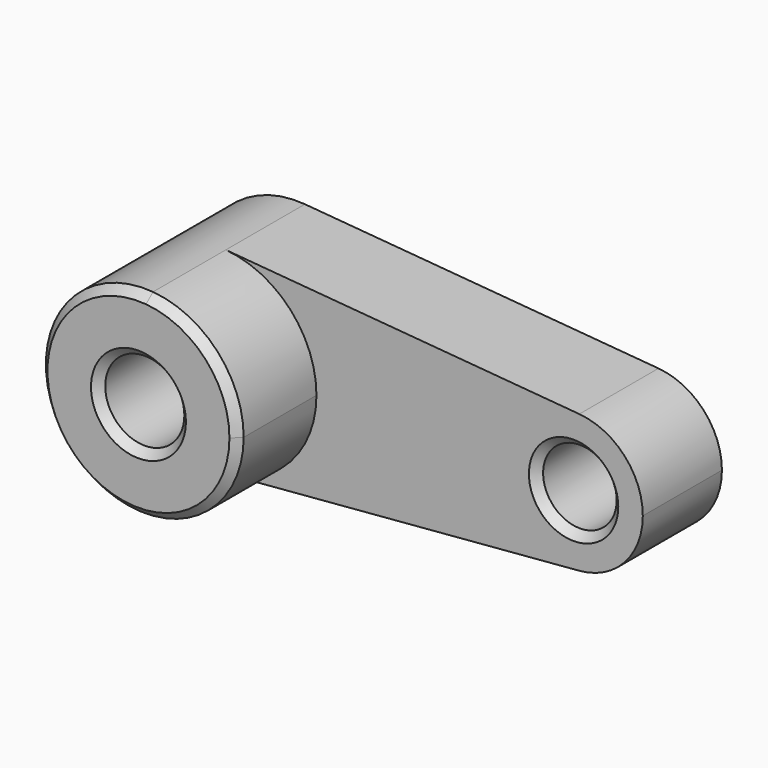
from build123d import *

# Parameters (mm, degrees)
F0_R     = 10
F0_R_2   = 9.297585
F1_DEPTH = 25
F2_DEPTH = 50
F3_SIZE  = 2


with BuildPart() as f1:
    # F0 (on Front) → F1 (new body)
    with BuildSketch(Plane.XZ):
        with BuildLine():
            ThreePointArc((2.083333, -24.913043), (18.399502, -16.92508), (25, 0))
            ThreePointArc((25, 0), (18.399502, 16.92508), (2.083333, 24.913043))
            ThreePointArc((2.083333, 24.913043), (-25, 0), (2.083333, -24.913043))
        make_face()
        Circle(F0_R, mode=Mode.SUBTRACT)
        with BuildLine():
            ThreePointArc((2.083333, 24.913043), (18.399502, 16.92508), (25, 0))
            ThreePointArc((25, 0), (18.399502, -16.92508), (2.083333, -24.913043))
            Line((2.083333, -24.913043), (91.458333, -17.43913))
            ThreePointArc((91.458333, -17.43913), (72.5, 0), (91.458333, 17.43913))
            Line((91.458333, 17.43913), (2.083333, 24.913043))
        make_face()
        with BuildLine():
            ThreePointArc((107.5, 0), (102.879651, 11.847556), (91.458333, 17.43913))
            ThreePointArc((91.458333, 17.43913), (72.5, 0), (91.458333, -17.43913))
            ThreePointArc((91.458333, -17.43913), (102.879651, -11.847556), (107.5, 0))
        make_face()
        with Locations((90, 0)):
            Circle(F0_R_2, mode=Mode.SUBTRACT)
    extrude(amount=F1_DEPTH)

    # F0 (on Front) → F2 (join)
    with BuildSketch(Plane.XZ):
        with BuildLine():
            ThreePointArc((2.083333, -24.913043), (18.399502, -16.92508), (25, 0))
            ThreePointArc((25, 0), (18.399502, 16.92508), (2.083333, 24.913043))
            ThreePointArc((2.083333, 24.913043), (-25, 0), (2.083333, -24.913043))
        make_face()
        Circle(F0_R, mode=Mode.SUBTRACT)
    extrude(amount=F2_DEPTH)

    # F3
    f3_edges = [f1.edges().sort_by_distance(p)[0] for p in [
        (80.702415, -25, 0),
        (-10, -50, 0),
        (-2.083333, -50, 24.913043),
    ]]
    chamfer(f3_edges, length=F3_SIZE)


solid = f1.part
